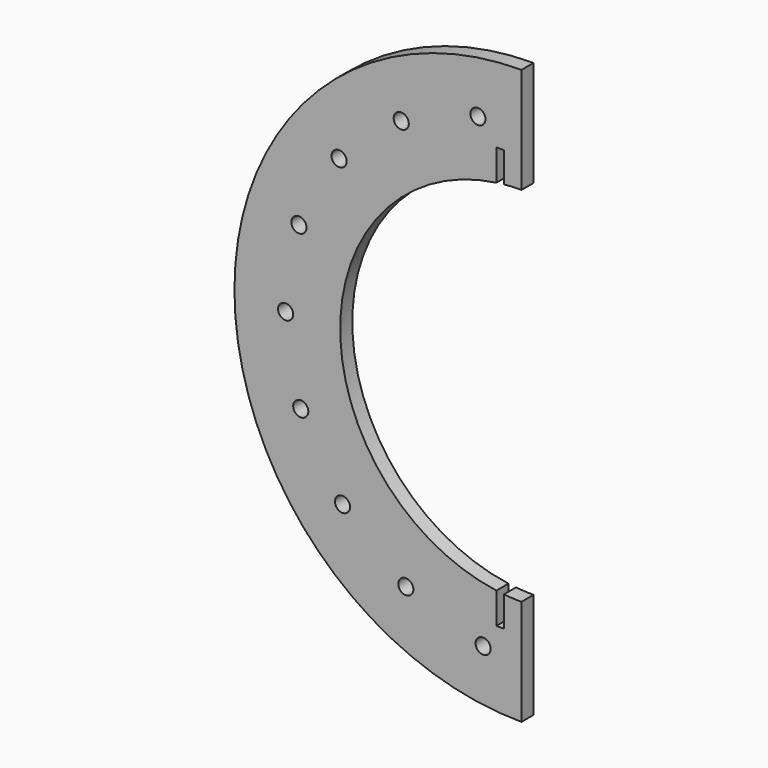
from build123d import *

# Parameters (mm, degrees)
F0_R     = 3.175
F1_DEPTH = 6.35


with BuildPart() as f1:
    # F0 (on Front) → F1 (new body)
    with BuildSketch(Plane.XZ):
        with BuildLine():
            Line((-44.837043, 99.354257), (-44.837043, 143.804257))
            ThreePointArc((-44.837043, 143.804257), (-165.487043, 23.154257), (-44.837043, -97.495743))
            Line((-44.837043, -97.495743), (-44.837043, -53.045743))
            ThreePointArc((-44.837043, -53.045743), (-48.524643, -52.956462), (-52.203601, -52.68883))
            Line((-52.203601, -52.68883), (-52.203601, -65.38883))
            Line((-52.203601, -65.38883), (-55.378601, -65.38883))
            Line((-55.378601, -65.38883), (-55.378601, -52.313057))
            ThreePointArc((-55.378601, -52.313057), (-121.037043, 23.154257), (-55.378601, 98.621572))
            Line((-55.378601, 98.621572), (-55.378601, 111.697344))
            Line((-55.378601, 111.697344), (-52.203601, 111.697344))
            Line((-52.203601, 111.697344), (-52.203601, 98.997344))
            ThreePointArc((-52.203601, 98.997344), (-48.524643, 99.264976), (-44.837043, 99.354257))
        make_face()
        with Locations((-120.066415, -41.424729)):
            Circle(F0_R, mode=Mode.SUBTRACT)
        with Locations((-137.616843, -11.800179)):
            Circle(F0_R, mode=Mode.SUBTRACT)
        with Locations((-143.976657, 22.040392)):
            Circle(F0_R, mode=Mode.SUBTRACT)
        with Locations((-93.442215, -63.2601)):
            Circle(F0_R, mode=Mode.SUBTRACT)
        with Locations((-60.955513, -74.672624)):
            Circle(F0_R, mode=Mode.SUBTRACT)
        with Locations((-138.378771, 56.015312)):
            Circle(F0_R, mode=Mode.SUBTRACT)
        with Locations((-121.498372, 86.026703)):
            Circle(F0_R, mode=Mode.SUBTRACT)
        with Locations((-95.371485, 108.454749)):
            Circle(F0_R, mode=Mode.SUBTRACT)
        with Locations((-63.149399, 120.594297)):
            Circle(F0_R, mode=Mode.SUBTRACT)
    extrude(amount=F1_DEPTH)


solid = f1.part
